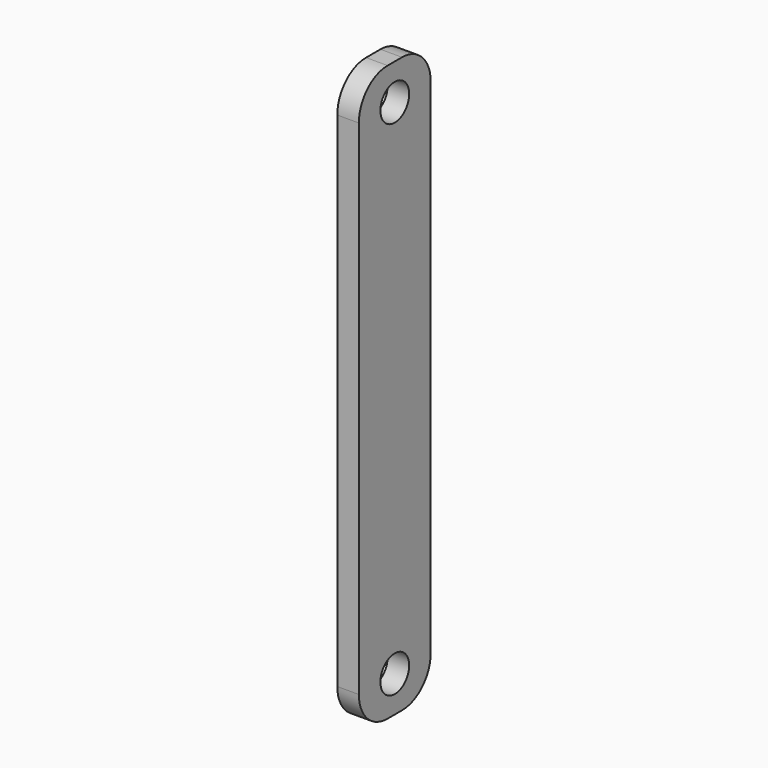
from build123d import *

# Parameters (mm, degrees)
F0_W     = 3
F0_H     = 12.5
F1_DEPTH = 80
F3_D     = 5
F4_R     = 5


with BuildPart() as f1:
    # F0 (on Top) → F1 (new body)
    with BuildSketch(Plane.XY):
        Rectangle(F0_W, F0_H)
    extrude(amount=F1_DEPTH)

    # F3 (through all)
    with Locations(Plane(origin=(-1.5, 0, 0), x_dir=(0, -1, 0), z_dir=(-1, 0, 0))):
        with Locations((0, 75), (0, 5)):
            Hole(F3_D / 2)

    # F4
    f4_edges = [f1.edges().sort_by_distance(p)[0] for p in [
        (0, -6.25, 80),
        (0, 6.25, 80),
        (0, 6.25, 0),
        (0, -6.25, 0),
    ]]
    fillet(f4_edges, radius=F4_R)


solid = f1.part
